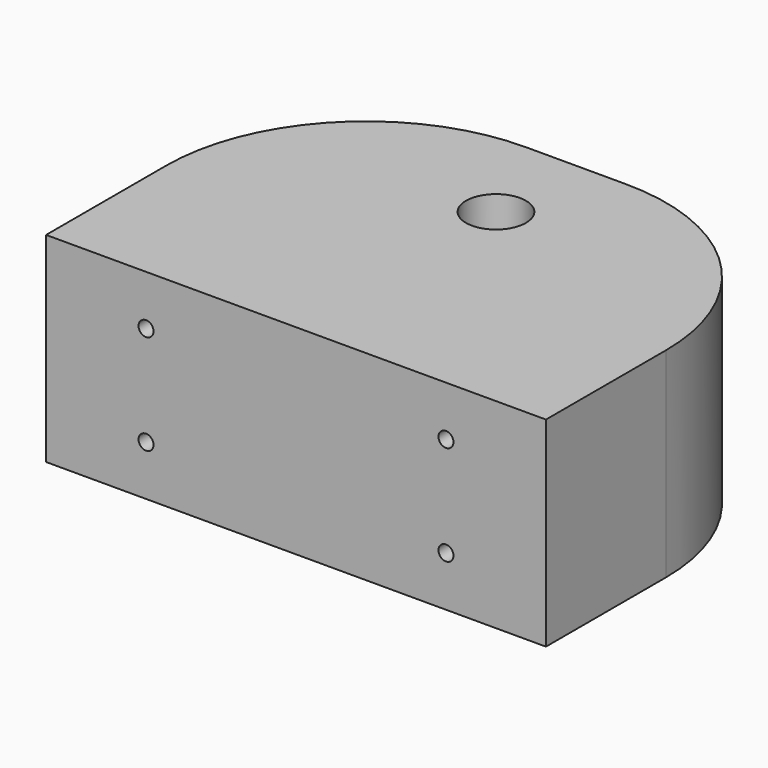
from build123d import *

# Parameters (mm, degrees)
F0_W     = 100
F0_H     = 70
F0_R     = 6
F1_DEPTH = 20
F2_R     = 40
F3_R     = 1.5
F4_DEPTH = 25


with BuildPart() as f1:
    # F0 (on Top) → F1 (new body, symmetric)
    with BuildSketch(Plane.XY):
        with Locations((0, 35)):
            Rectangle(F0_W, F0_H)
        with Locations((0, 50)):
            Circle(F0_R, mode=Mode.SUBTRACT)
    extrude(amount=F1_DEPTH, both=True)

    # F2
    f2_edges = [f1.edges().sort_by_distance(p)[0] for p in [
        (-50, 70, 0),
        (50, 70, 0),
    ]]
    fillet(f2_edges, radius=F2_R)

    # F3 (on face) → F4 (cut)
    with BuildSketch(Plane.XZ):
        with Locations((-30, 10)):
            Circle(F3_R)
        with Locations((-30, -10)):
            Circle(F3_R)
        with Locations((30, -10)):
            Circle(F3_R)
        with Locations((30, 10)):
            Circle(F3_R)
    extrude(amount=-F4_DEPTH, mode=Mode.SUBTRACT)


solid = f1.part
